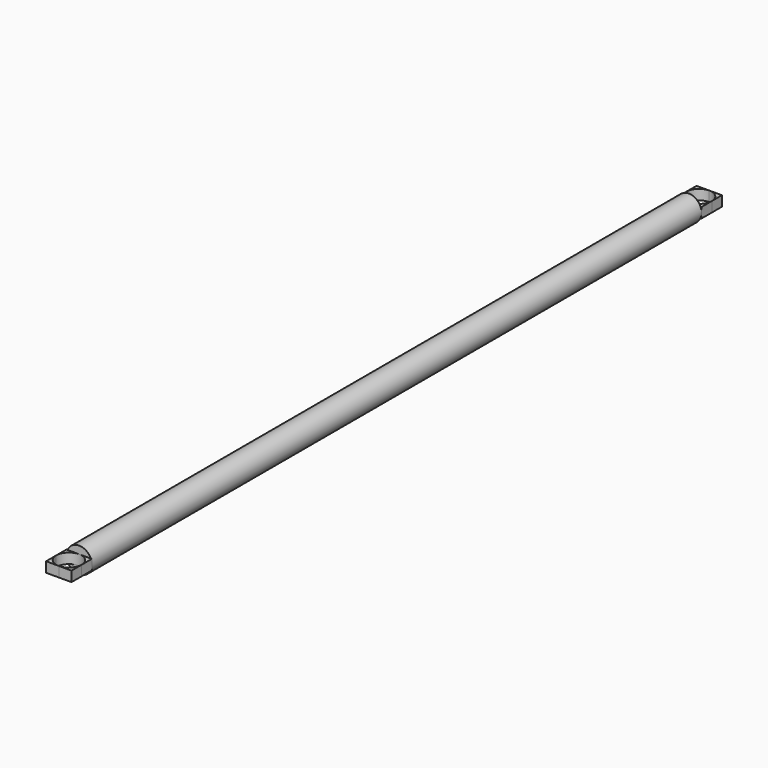
from build123d import *

# Parameters (mm, degrees)
F0_R     = 6.35
F1_DEPTH = 190.5
F2_W     = 12.7
F2_H     = 12.7
F3_DEPTH = 2.54
F4_R     = 6.35
F5_DEPTH = 8.891


with BuildPart() as f1:
    # F0 (on Front) → F1 (new body, symmetric)
    with BuildSketch(Plane.XZ):
        Circle(F0_R)
    extrude(amount=F1_DEPTH, both=True)

    # F2 (on Top) → F3 (join, symmetric)
    with BuildSketch(Plane.XY):
        with Locations((0, -196.85)):
            Rectangle(F2_W, F2_H)
        with Locations((0, 196.85)):
            Rectangle(F2_W, F2_H)
    extrude(amount=F3_DEPTH, both=True)

    # F4 (on face) → F5 (cut, through all)
    with BuildSketch(Plane.XY.offset(2.54)):
        with Locations((0, 196.85)):
            Circle(F4_R)
        with Locations((0, -196.85)):
            Circle(F4_R)
    extrude(amount=-F5_DEPTH, mode=Mode.SUBTRACT)


solid = f1.part
